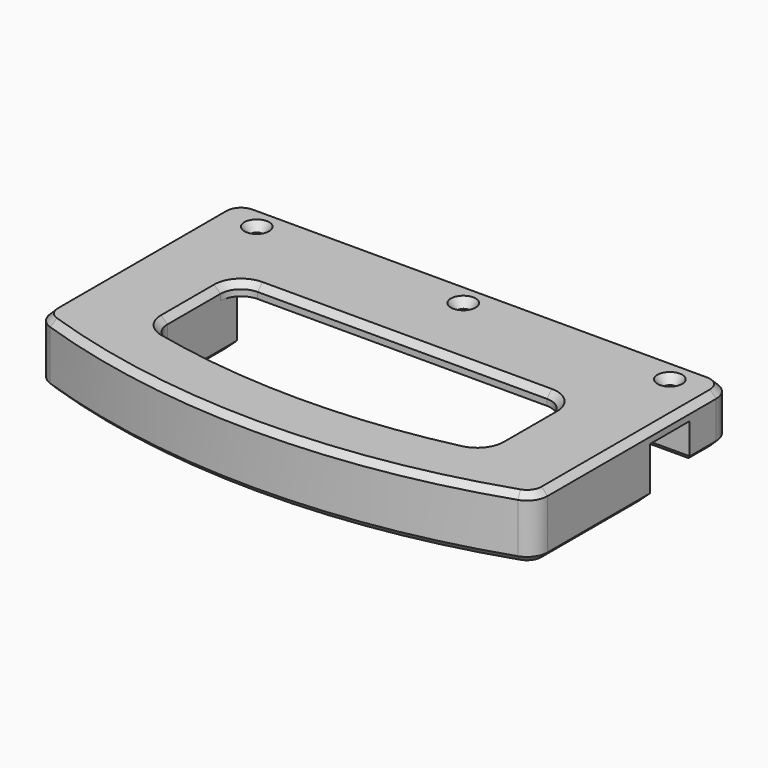
from build123d import *

# Parameters (mm, degrees)
F0_W       = 120
F0_H       = 13
F0_R       = 1.5
F1_DEPTH   = 3
F2_DEPTH   = 9
F3_DEPTH   = 12
F4_R       = 5
F5_SIZE2   = 1.5
F5_SIZE    = 2
F5_2_SIZE2 = 1.5
F5_2_SIZE  = 2
F5_3_SIZE2 = 1.5
F5_3_SIZE  = 2
F6_SIZE    = 1.5


with BuildPart() as f1:
    # F0 (on Top) → F1 (new body)
    with BuildSketch(Plane.XY):
        with Locations((40, 18.5)):
            Rectangle(F0_W, F0_H)
        with Locations((-10, 18.5)):
            Circle(F0_R, mode=Mode.SUBTRACT)
        with Locations((40, 18.5)):
            Circle(F0_R, mode=Mode.SUBTRACT)
        with Locations((90, 18.5)):
            Circle(F0_R, mode=Mode.SUBTRACT)
        Polygon((-20, 0), (0, 0), (80, 0), (100, 0), (100, 12), (-20, 12), align=None)
        with BuildLine():
            Line((0, -25), (0, 0))
            Line((0, 0), (-20, 0))
            Line((-20, 0), (-20, -34.5516387229))
            ThreePointArc((-20, -34.5516387229), (40, -45), (100, -34.5516387229))
            Line((100, -34.5516387229), (100, 0))
            Line((100, 0), (80, 0))
            Line((80, 0), (80, -25))
            ThreePointArc((80, -25), (40, -30), (0, -25))
        make_face()
    extrude(amount=F1_DEPTH)

    # F0 (on Top) → F2 (join)
    with BuildSketch(Plane.XY):
        with Locations((40, 18.5)):
            Rectangle(F0_W, F0_H)
        with Locations((-10, 18.5)):
            Circle(F0_R, mode=Mode.SUBTRACT)
        with Locations((40, 18.5)):
            Circle(F0_R, mode=Mode.SUBTRACT)
        with Locations((90, 18.5)):
            Circle(F0_R, mode=Mode.SUBTRACT)
    extrude(amount=-F2_DEPTH)

    # F0 (on Top) → F3 (join)
    with BuildSketch(Plane.XY):
        with BuildLine():
            Line((0, -25), (0, 0))
            Line((0, 0), (-20, 0))
            Line((-20, 0), (-20, -34.5516387229))
            ThreePointArc((-20, -34.5516387229), (40, -45), (100, -34.5516387229))
            Line((100, -34.5516387229), (100, 0))
            Line((100, 0), (80, 0))
            Line((80, 0), (80, -25))
            ThreePointArc((80, -25), (40, -30), (0, -25))
        make_face()
    extrude(amount=-F3_DEPTH)

    # F4
    f4_edges = [f1.edges().sort_by_distance(p)[0] for p in [
        (-20, -34.551639, -4.5),
        (100, -34.551639, -4.5),
        (0, 0, 1.5),
        (80, 0, 1.5),
        (80, -25, -4.5),
        (0, -25, -4.5),
        (100, 25, -3),
        (-20, 25, -3),
    ]]
    fillet(f4_edges, radius=F4_R)

    # F5
    f5_edges = [f1.edges().sort_by_distance(p)[0] for p in [
        (-11.5, 18.5, 3),
    ]]
    f5_side = f1.faces().sort_by_distance((-11.5, 18.5, -3))[0]
    chamfer(f5_edges, length=F5_SIZE, length2=F5_SIZE2, reference=f5_side)

    # F5#2
    f5_2_edges = [f1.edges().sort_by_distance(p)[0] for p in [
        (38.5, 18.5, 3),
    ]]
    f5_2_side = f1.faces().sort_by_distance((38.5, 18.5, -3))[0]
    chamfer(f5_2_edges, length=F5_2_SIZE, length2=F5_2_SIZE2, reference=f5_2_side)

    # F5#3
    f5_3_edges = [f1.edges().sort_by_distance(p)[0] for p in [
        (88.5, 18.5, 3),
    ]]
    f5_3_side = f1.faces().sort_by_distance((88.5, 18.5, -3))[0]
    chamfer(f5_3_edges, length=F5_3_SIZE, length2=F5_3_SIZE2, reference=f5_3_side)

    # F6
    f6_edges = [f1.edges().sort_by_distance(p)[0] for p in [
        (40, 0, 3),
        (-20, -5.498471, 3),
        (100, -15.498471, -12),
        (99.060235, -33.914902, -12),
        (90, 0, -12),
        (40, -45, -12),
        (80, -10.530938, -12),
        (-19.060235, -33.914902, -12),
        (78.90868, -24.179925, -12),
        (-20, -15.498471, -12),
        (40, -30, -12),
        (-10, 0, -12),
        (1.09132, -24.179925, -12),
        (0, -10.530938, -12),
        (40, 12, -9),
        (40, 25, -9),
    ]]
    chamfer(f6_edges, length=F6_SIZE)


solid = f1.part
